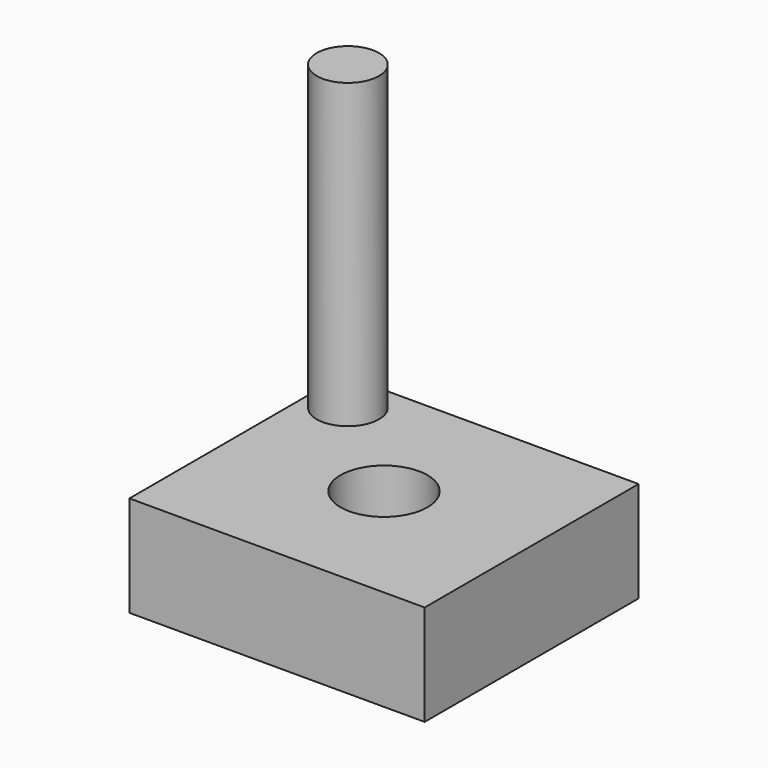
from build123d import *

# Parameters (mm, degrees)
F0_W     = 74.433348
F0_H     = 67.411334
F1_DEPTH = 25.4
F2_R     = 10.968737
F3_DEPTH = 25.401
F4_R     = 7.851637
F5_DEPTH = 76.2


with BuildPart() as f1:
    # F0 (on Top) → F1 (new body)
    with BuildSketch(Plane.XY):
        with Locations((1e-06, 4e-06)):
            Rectangle(F0_W, F0_H)
    extrude(amount=F1_DEPTH)

    # F2 (on face) → F3 (cut, through all)
    with BuildSketch(Plane.XY.offset(25.4)):
        Circle(F2_R)
    extrude(amount=-F3_DEPTH, mode=Mode.SUBTRACT)

    # F4 (on face) → F5 (join)
    with BuildSketch(Plane.XY.offset(25.4)):
        with Locations((-27.759731, 23.318172)):
            Circle(F4_R)
    extrude(amount=F5_DEPTH)


solid = f1.part
